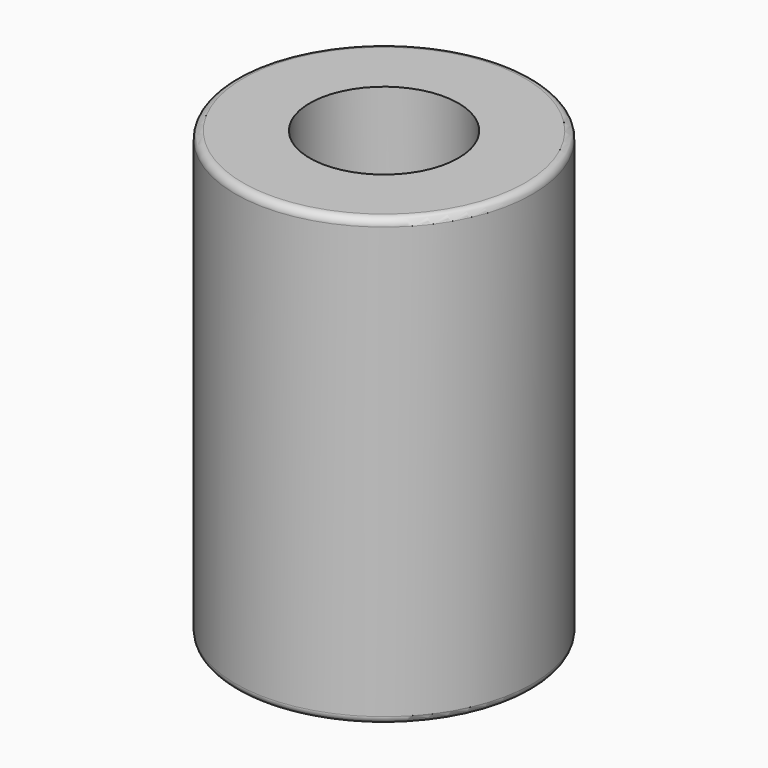
from build123d import *

# Parameters (mm, degrees)
F0_R     = 10
F0_R_2   = 3.175
F1_DEPTH = 15
F2_R     = 5
F3_DEPTH = 10
F4_R     = 0.508


with BuildPart() as f1:
    # F0 (on Top) → F1 (new body, symmetric)
    with BuildSketch(Plane.XY):
        Circle(F0_R)
        Circle(F0_R_2, mode=Mode.SUBTRACT)
    extrude(amount=F1_DEPTH, both=True)

    # F2 (on face) → F3 (cut)
    with BuildSketch(Plane.XY.offset(15)):
        Circle(F2_R)
    extrude(amount=-F3_DEPTH, mode=Mode.SUBTRACT)

    # F4
    f4_edges = [f1.edges().sort_by_distance(p)[0] for p in [
        (-10, 0, 15),
        (-10, 0, -15),
    ]]
    fillet(f4_edges, radius=F4_R)


solid = f1.part
